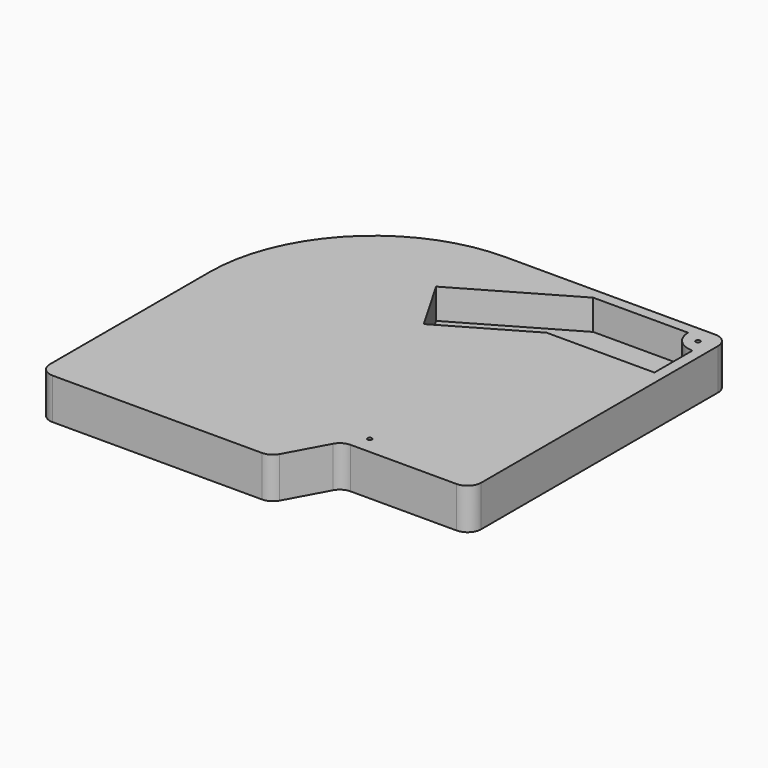
from build123d import *

# Parameters (mm, degrees)
PAD_DEPTH            = 19
FILLET001_R          = 6.35
POCKET002_DEPTH      = 14.001
SKETCH014_R          = 1
POCKET005_DEPTH      = 0.001
POCKET005_DEPTH_BACK = 19.001
SKETCH015_R          = 3
POCKET006_DEPTH      = 3


with BuildPart() as part:
    # Sketch001 → Pad (new body)
    with BuildSketch(Plane.XY):
        with BuildLine():
            Line((180, 175), (180, 31.35))
            ThreePointArc((173.65, 25), (178.140128, 26.859872), (180, 31.35))
            Line((173.65, 25), (124.577301, 25))
            ThreePointArc((124.577301, 25), (121.333458, 24.108936), (119, 21.685821))
            Line((119, 21.685821), (109, 3.314179))
            ThreePointArc((103.422699, 0), (106.666542, 0.891064), (109, 3.314179))
            Line((103.422699, 0), (6.35, 0))
            ThreePointArc((0, 6.35), (1.859872, 1.859872), (6.35, 0))
            Line((0, 98.8), (0, 6.35))
            ThreePointArc((76.2, 175), (22.318463, 152.681537), (0, 98.8))
            Line((180, 175), (76.2, 175))
        make_face()
    extrude(amount=PAD_DEPTH)

    # Fillet001
    fillet001_edges = [part.edges().sort_by_distance(p)[0] for p in [
        (180, 175, 9.5),
    ]]
    fillet(fillet001_edges, radius=FILLET001_R)

    # Sketch007 → Pocket002 (cut, through all)
    with BuildSketch(Plane.XY.offset(5)):
        with BuildLine():
            Line((165, 170), (121, 170))
            Line((121, 170), (71.17245, 141.232051))
            Line((71.17245, 141.232051), (86.028857, 115.5))
            Line((86.028857, 115.5), (125, 138))
            Line((125, 138), (175, 138))
            Line((175, 138), (175, 160))
            ThreePointArc((165, 170), (167.928932, 162.928932), (175, 160))
        make_face()
    extrude(amount=POCKET002_DEPTH, mode=Mode.SUBTRACT)

    # Sketch014 → Pocket005 (cut, two sides)
    with BuildSketch(Plane.XY) as pocket005_sk:
        with Locations((172, 167)):
            Circle(SKETCH014_R)
        with Locations((127, 33)):
            Circle(SKETCH014_R)
    extrude(amount=-POCKET005_DEPTH, mode=Mode.SUBTRACT)
    extrude(pocket005_sk.sketch, amount=POCKET005_DEPTH_BACK, mode=Mode.SUBTRACT)

    # Sketch015 → Pocket006 (cut)
    with BuildSketch(Plane.XY):
        with Locations((127, 33)):
            Circle(SKETCH015_R)
        with Locations((172, 167)):
            Circle(SKETCH015_R)
    extrude(amount=POCKET006_DEPTH, mode=Mode.SUBTRACT)


solid = part.part
